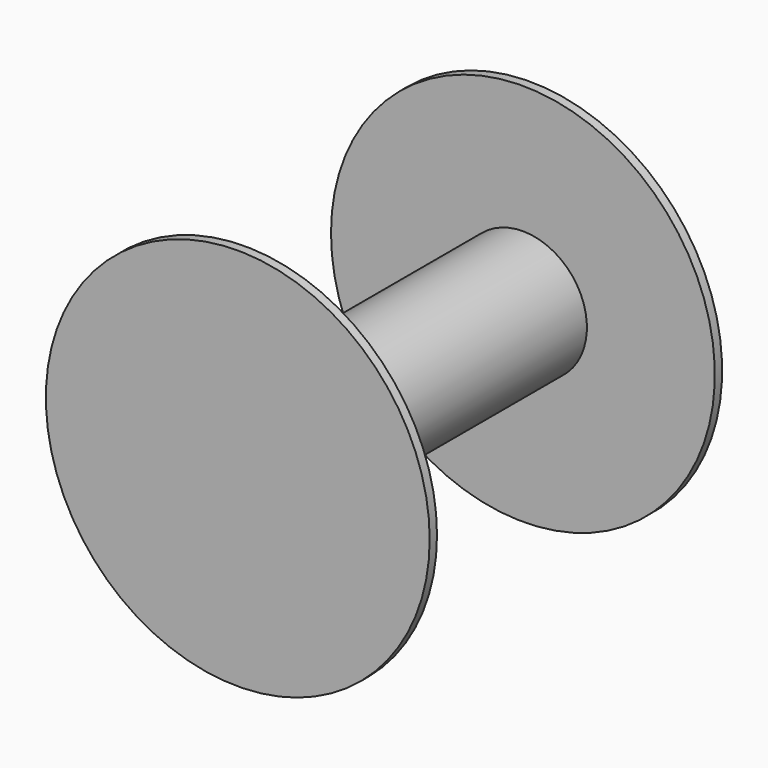
from build123d import *

# Parameters (mm, degrees)
F0_R     = 133.35
F1_DEPTH = 6.35
F2_R     = 44.45
F3_DEPTH = 241.3
F4_R     = 133.35
F4_R_2   = 44.45
F5_DEPTH = 6.35


with BuildPart() as f1:
    # F0 (on Front) → F1 (new body)
    with BuildSketch(Plane.XZ):
        Circle(F0_R)
    extrude(amount=-F1_DEPTH)

    # F2 (on face) → F3 (join)
    with BuildSketch(Plane(origin=(0, 6.35, 0), x_dir=(-1, 0, 0), z_dir=(0, 1, 0))):
        Circle(F2_R)
    extrude(amount=F3_DEPTH)

    # F4 (on face) → F5 (join)
    with BuildSketch(Plane(origin=(0, 247.65, 0), x_dir=(-1, 0, 0), z_dir=(0, 1, 0))):
        Circle(F4_R)
        Circle(F4_R_2, mode=Mode.SUBTRACT)
        Circle(F4_R_2)
    extrude(amount=F5_DEPTH)


solid = f1.part
